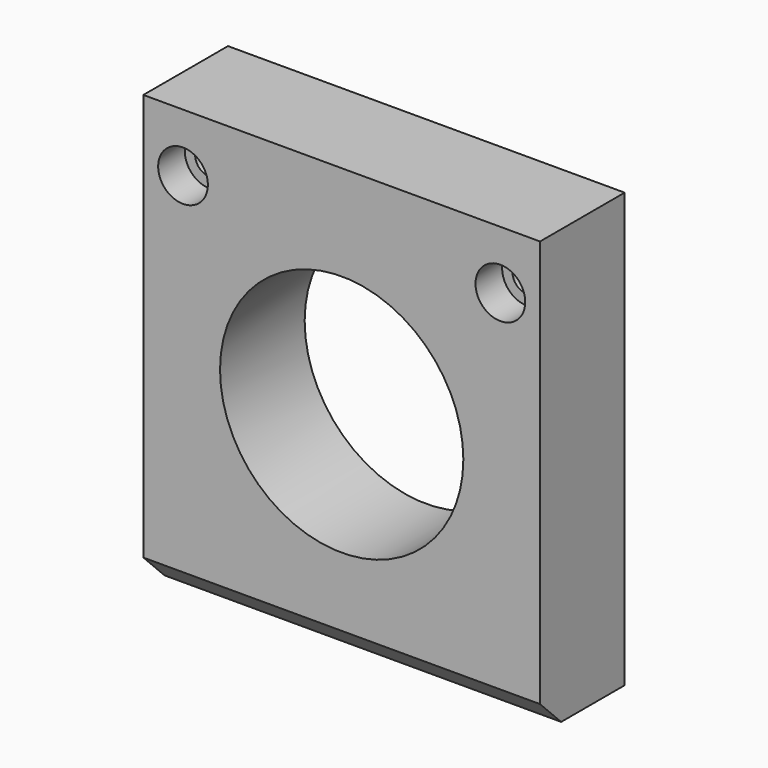
from build123d import *

# Parameters (mm, degrees)
F0_W           = 75
F0_H           = 82
F1_DEPTH       = 20
F3_D           = 46
F4_D           = 5.5
F4_CBORE_D     = 9.4
F4_CBORE_DEPTH = 6.3
F5_SIZE        = 5


with BuildPart() as f1:
    # F0 (on Front) → F1 (new body)
    with BuildSketch(Plane.XZ):
        Rectangle(F0_W, F0_H)
    extrude(amount=F1_DEPTH)

    # F3 (through all)
    with Locations(Plane.XZ.offset(20)):
        with Locations((0, 0)):
            Hole(F3_D / 2)

    # F4 (through all)
    with Locations(Plane.XZ.offset(20)):
        with Locations((-30, 30), (30, 30)):
            CounterBoreHole(F4_D / 2, F4_CBORE_D / 2, F4_CBORE_DEPTH)

    # F5
    f5_edges = [f1.edges().sort_by_distance(p)[0] for p in [
        (0, -20, -41),
    ]]
    chamfer(f5_edges, length=F5_SIZE)


solid = f1.part
